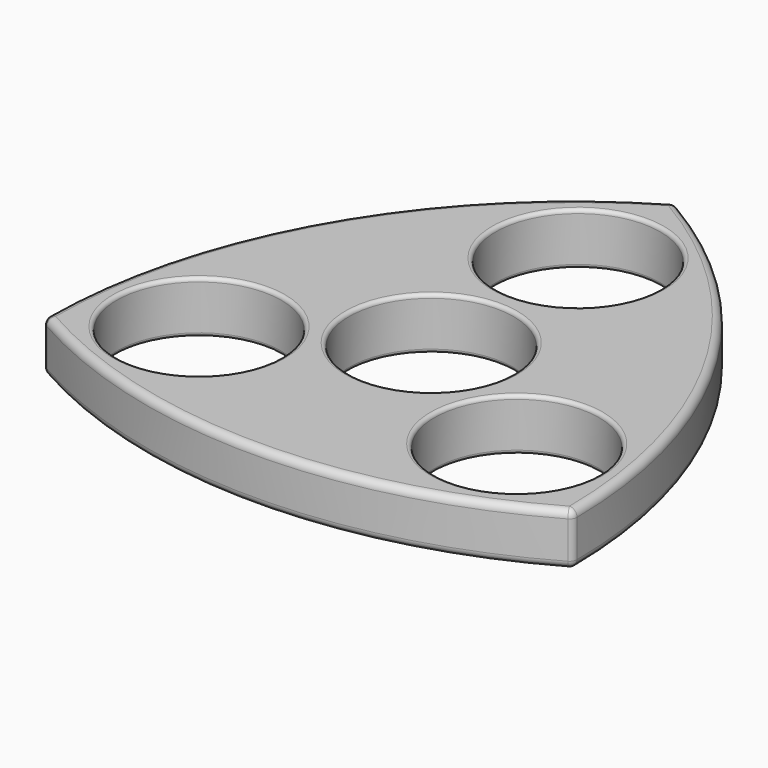
from build123d import *

# Parameters (mm, degrees)
F0_R     = 11.05
F1_DEPTH = 7
F2_R     = 1
F3_R     = 0.5


with BuildPart() as f1:
    # F0 (on Top) → F1 (new body)
    with BuildSketch(Plane.XY):
        with BuildLine():
            ThreePointArc((-35.507042, -20.5), (0, -30.014083), (35.507042, -20.5))
            ThreePointArc((35.507042, -20.5), (25.992958, 15.007042), (0, 41))
            ThreePointArc((0, 41), (-25.992958, 15.007042), (-35.507042, -20.5))
        make_face()
        with Locations((-21.335174, -12.317868)):
            Circle(F0_R, mode=Mode.SUBTRACT)
        Circle(F0_R, mode=Mode.SUBTRACT)
        with Locations((21.335174, -12.317868)):
            Circle(F0_R, mode=Mode.SUBTRACT)
        with Locations((0, 24.635737)):
            Circle(F0_R, mode=Mode.SUBTRACT)
    extrude(amount=F1_DEPTH)

    # F2
    f2_edges = [f1.edges().sort_by_distance(p)[0] for p in [
        (0, -30.014083, 7),
        (25.992958, 15.007042, 7),
        (-25.992958, 15.007042, 7),
        (25.992958, 15.007042, 0),
        (0, -30.014083, 0),
        (-25.992958, 15.007042, 0),
        (-35.507042, -20.5, 3.5),
        (0, 41, 3.5),
        (35.507042, -20.5, 3.5),
    ]]
    fillet(f2_edges, radius=F2_R)

    # F3
    f3_edges = [f1.edges().sort_by_distance(p)[0] for p in [
        (-32.385174, -12.317868, 7),
        (-11.05, 0, 7),
        (-11.05, 24.635737, 7),
        (10.285174, -12.317868, 7),
        (10.285174, -12.317868, 0),
        (-11.05, 0, 0),
        (-32.385174, -12.317868, 0),
        (-11.05, 24.635737, 0),
    ]]
    fillet(f3_edges, radius=F3_R)


solid = f1.part
